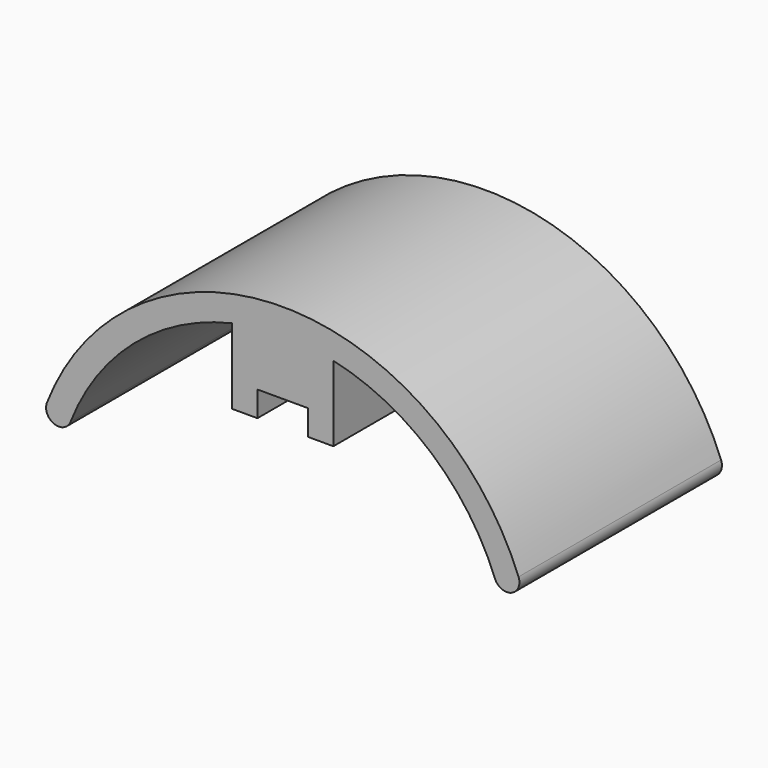
from build123d import *

# Parameters (mm, degrees)
F0_W      = 50
F0_H      = 20
F1_DEPTH  = 20
F4_DEPTH  = 50
F5_W      = 10
F5_H      = 10
F6_DEPTH  = 5
F7_W      = 10
F7_H      = 5
F8_DEPTH  = 10
F9_W      = 10
F9_H      = 5
F10_DEPTH = 50
F12_W     = 10
F12_H     = 5
F13_DEPTH = 10
F14_W     = 10
F14_H     = 10
F15_DEPTH = 5
F16_W     = 10
F16_H     = 10
F17_DEPTH = 5


with BuildPart() as f1:
    # F0 (on Right) → F1 (new body)
    with BuildSketch(Plane.YZ):
        with Locations((25, -10)):
            Rectangle(F0_W, F0_H)
    extrude(amount=F1_DEPTH)

    # F3 (on offset) → F4 (join)
    with BuildSketch(Plane(origin=(0, 50, 0), x_dir=(-1, 0, 0), z_dir=(0, 1, 0))):
        with BuildLine():
            ThreePointArc((31.9188415439, -32.6248712805), (35.1568284949, -34.0445333899), (36.5764906043, -30.8065464388))
            ThreePointArc((36.5764906043, -30.8065464388), (-10, 1.0102051443), (-56.5764906043, -30.8065464388))
            ThreePointArc((-56.5764906043, -30.8065464388), (-55.1568284949, -34.0445333899), (-51.9188415439, -32.6248712805))
            ThreePointArc((-51.9188415439, -32.6248712805), (-10, -3.9897948557), (31.9188415439, -32.6248712805))
        make_face()
    extrude(amount=-F4_DEPTH)

    # F5 (on offset) → F6 (cut)
    with BuildSketch(Plane(origin=(0, 50, 0), x_dir=(-1, 0, 0), z_dir=(0, 1, 0))):
        with Locations((-10, -10)):
            Rectangle(F5_W, F5_H)
    extrude(amount=-F6_DEPTH, mode=Mode.SUBTRACT)

    # F7 (on offset) → F8 (cut)
    with BuildSketch(Plane(origin=(0, 50, 0), x_dir=(-1, 0, 0), z_dir=(0, 1, 0))):
        with Locations((-10, -7.5)):
            Rectangle(F7_W, F7_H)
    extrude(amount=-F8_DEPTH, mode=Mode.SUBTRACT)

    # F9 (on offset) → F10 (cut)
    with BuildSketch(Plane(origin=(0, 50, 0), x_dir=(-1, 0, 0), z_dir=(0, 1, 0))):
        with Locations((-10, -17.5)):
            Rectangle(F9_W, F9_H)
    extrude(amount=-F10_DEPTH, mode=Mode.SUBTRACT)

    # F12 (on offset) → F13 (cut)
    with BuildSketch(Plane(origin=(0, 20, 0), x_dir=(-1, 0, 0), z_dir=(0, 1, 0))):
        with Locations((-10, -7.5)):
            Rectangle(F12_W, F12_H)
    extrude(amount=-F13_DEPTH, mode=Mode.SUBTRACT)

    # F14 (on offset) → F15 (cut)
    with BuildSketch(Plane(origin=(0, 20, 0), x_dir=(-1, 0, 0), z_dir=(0, 1, 0))):
        with Locations((-10, -10)):
            Rectangle(F14_W, F14_H)
    extrude(amount=-F15_DEPTH, mode=Mode.SUBTRACT)

    # F16 (on offset) → F17 (cut)
    with BuildSketch(Plane(origin=(0, 20, 0), x_dir=(-1, 0, 0), z_dir=(0, 1, 0))):
        with Locations((-10, -10)):
            Rectangle(F16_W, F16_H)
    extrude(amount=F17_DEPTH, mode=Mode.SUBTRACT)


solid = f1.part
